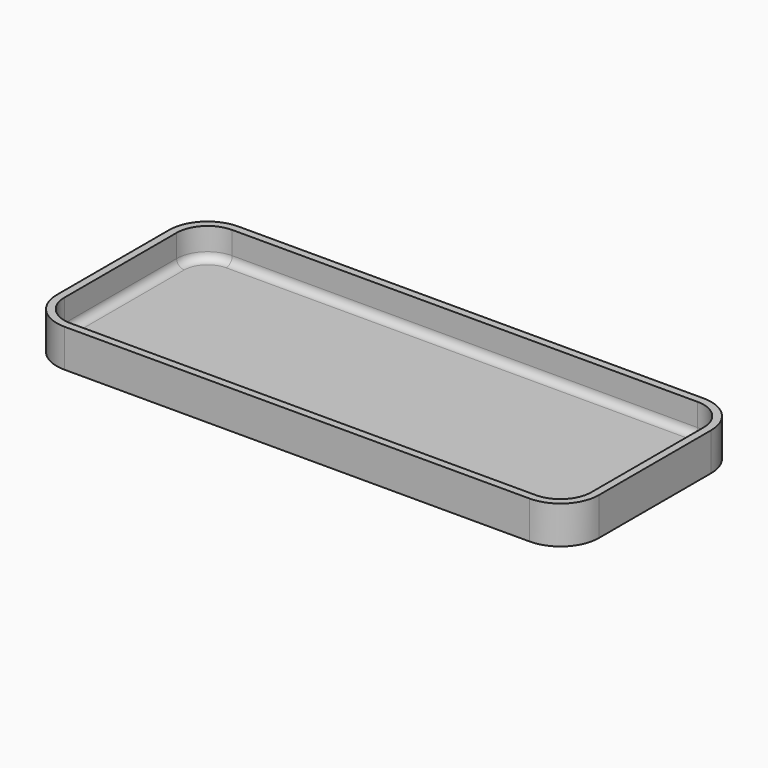
from build123d import *

# Parameters (mm, degrees)
F0_W     = 71.666194126
F0_H     = 28.7182237953
F1_DEPTH = 5
F2_R     = 5.08
F3_R     = 5.08
F4_R     = 5.08
F5_R     = 5.08
F6_T     = -1
F7_R     = 1


with BuildPart() as f1:
    # F0 (on Top) → F1 (new body)
    with BuildSketch(Plane.XY):
        with Locations((-18.4986749664, 23.9965328947)):
            Rectangle(F0_W, F0_H)
    extrude(amount=F1_DEPTH)

    # F2
    f2_edges = [f1.edges().sort_by_distance(p)[0] for p in [
        (-54.331772, 38.355645, 2.5),
    ]]
    fillet(f2_edges, radius=F2_R)

    # F3
    f3_edges = [f1.edges().sort_by_distance(p)[0] for p in [
        (-54.331772, 9.637421, 2.5),
    ]]
    fillet(f3_edges, radius=F3_R)

    # F4
    f4_edges = [f1.edges().sort_by_distance(p)[0] for p in [
        (17.334422, 9.637421, 2.5),
    ]]
    fillet(f4_edges, radius=F4_R)

    # F5
    f5_edges = [f1.edges().sort_by_distance(p)[0] for p in [
        (17.334422, 38.355645, 2.5),
    ]]
    fillet(f5_edges, radius=F5_R)

    # F6
    f6_openings = [f1.faces().sort_by_distance(p)[0] for p in [
        (-18.498675, 23.996533, 5),
    ]]
    offset(amount=F6_T, openings=f6_openings)

    # F7
    f7_edges = [f1.edges().sort_by_distance(p)[0] for p in [
        (-52.136768, 11.832425, 1),
        (-18.498675, 10.637421, 1),
        (15.139418, 11.832425, 1),
        (16.334422, 23.996533, 1),
        (15.139418, 36.16064, 1),
        (-18.498675, 37.355645, 1),
        (-52.136768, 36.16064, 1),
        (-53.331772, 23.996533, 1),
    ]]
    fillet(f7_edges, radius=F7_R)


solid = f1.part
